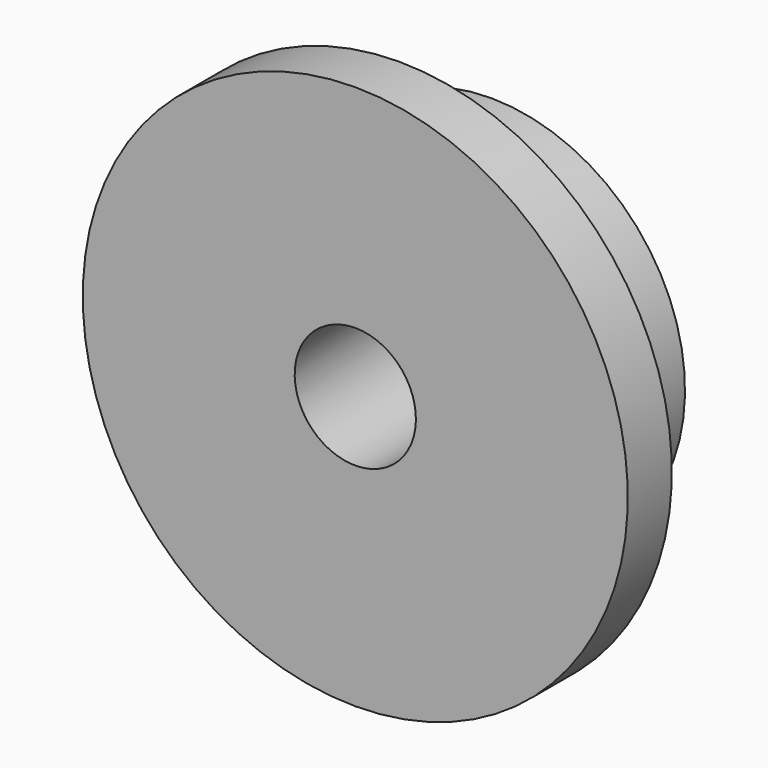
from build123d import *

# Parameters (mm, degrees)
F0_W   = 0.284
F0_H   = 0.405
F0_H_2 = 0.6875
F0_W_2 = 0.591


with BuildPart() as f1:
    # F0 (on Right) → F1 (revolve)
    with BuildSketch(Plane.YZ):
        with Locations((0.142, 1.2025)):
            Rectangle(F0_W, F0_H)
        with Locations((0.142, 0.65625)):
            Rectangle(F0_W, F0_H_2)
        with Locations((0.5795, 0.65625)):
            Rectangle(F0_W_2, F0_H_2)
    revolve(axis=Axis((0, 0.4375, 0), (0, 1, 0)))


solid = f1.part
